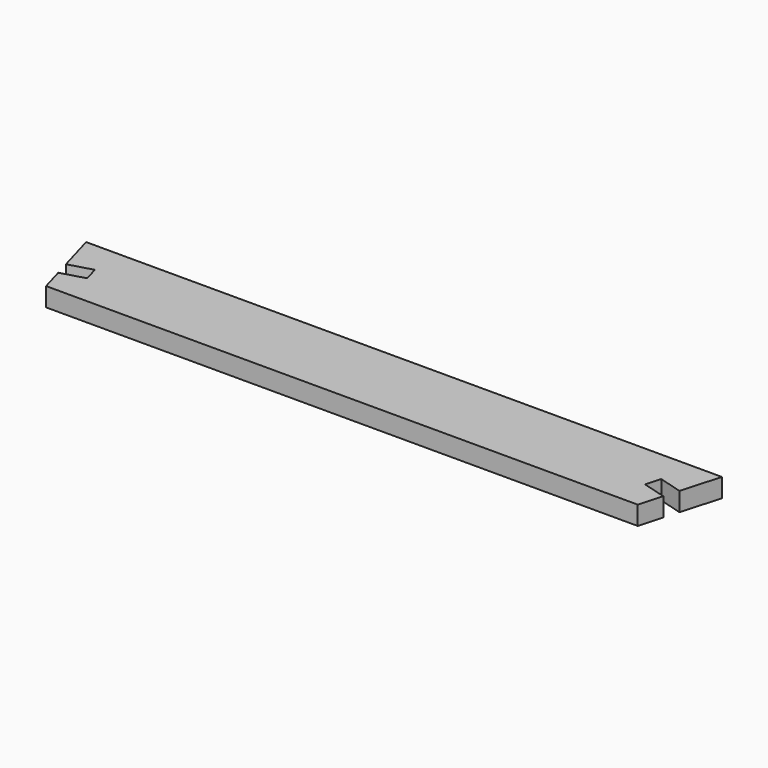
from build123d import *

# Parameters (mm, degrees)
F1_DEPTH = 11.5


with BuildPart() as f1:
    # F0 (on Top) → F1 (new body, symmetric)
    with BuildSketch(Plane.XY):
        Polygon((-370.157315, 28.852239), (-361.938538, 0), (361.938538, 0), (370.157315, 28.852239), (341.305075, 37.071016), (346.510301, 55.344101), (375.36254, 47.125324), (389, 95), (-389, 95), (-375.36254, 47.125324), (-346.510301, 55.344101), (-341.305075, 37.071016), align=None)
    extrude(amount=F1_DEPTH, both=True)


solid = f1.part
